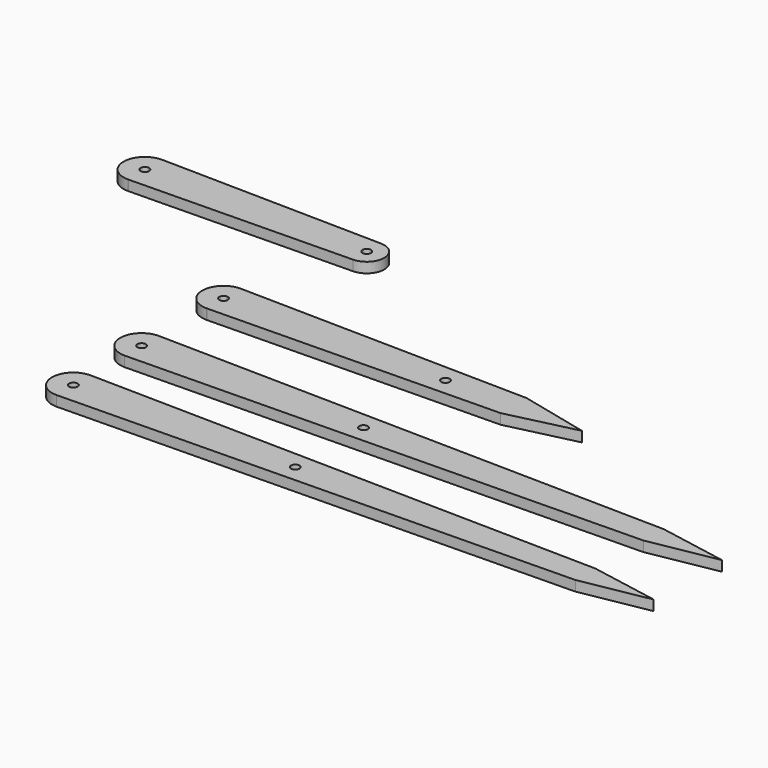
from build123d import *

# Parameters (mm, degrees)
F0_R     = 2.5
F1_DEPTH = 6
F5_R     = 2.5
F6_DEPTH = 6
F7_R     = 2.5
F8_DEPTH = 6


with BuildPart() as f1:
    # F0 (on Top) → F1 (new body)
    with BuildSketch(Plane.XY):
        with BuildLine():
            Line((300, 7.2967819398), (0, 12.5))
            ThreePointArc((0, 12.5), (-12.5, 0), (0, -12.5))
            Line((0, -12.5), (300, -7.2967819398))
            Line((300, -7.2967819398), (340, 0))
            Line((340, 0), (300, 7.2967819398))
        make_face()
        Circle(F0_R, mode=Mode.SUBTRACT)
        with Locations((130, 0)):
            Circle(F0_R, mode=Mode.SUBTRACT)
    extrude(amount=F1_DEPTH)


with BuildPart() as f2_1:
    # F2: copy of F1
    add(f1.part.moved(Location((0, 50, 0))))


with BuildPart() as f3_1:
    # F3: copy of F2_1
    add(f2_1.part.moved(Location((0, 50, 0))))


with BuildPart() as f6:
    # F5 (on Top) → F6 (new body)
    with BuildSketch(Plane.XY):
        with BuildLine():
            Line((170, 119.5202078175), (0.4362437088, 122.479954193))
            ThreePointArc((0.4362437088, 122.479954193), (8.9917475042, 118.670798486), (12.5, 109.9875688553))
            ThreePointArc((12.5, 109.9875688553), (8.9917475042, 101.3043392245), (0.4362437088, 97.4951835175))
            Line((0.4362437088, 97.4951835175), (170, 100.4549298931))
            Line((170, 100.4549298931), (210, 109.9875688553))
            Line((210, 109.9875688553), (170, 119.5202078175))
        make_face()
        with Locations((130, 109.9875688553)):
            Circle(F5_R, mode=Mode.SUBTRACT)
        with BuildLine():
            Line((0.4362437088, 122.479954193), (0, 122.4875688553))
            Line((0, 122.4875688553), (0, 112.4875688553))
            ThreePointArc((0, 112.4875688553), (1.767766953, 111.7553358083), (2.5, 109.9875688553))
            ThreePointArc((2.5, 109.9875688553), (1.767766953, 108.2198019023), (0, 107.4875688553))
            Line((0, 107.4875688553), (0, 97.4875688553))
            Line((0, 97.4875688553), (0.4362437088, 97.4951835175))
            ThreePointArc((0.4362437088, 97.4951835175), (8.9917475042, 101.3043392245), (12.5, 109.9875688553))
            ThreePointArc((12.5, 109.9875688553), (8.9917475042, 118.670798486), (0.4362437088, 122.479954193))
        make_face()
        with BuildLine():
            Line((0, 112.4875688553), (0, 122.4875688553))
            ThreePointArc((0, 122.4875688553), (-12.5, 109.9875688553), (0, 97.4875688553))
            Line((0, 97.4875688553), (0, 107.4875688553))
            ThreePointArc((0, 107.4875688553), (-2.5, 109.9875688553), (0, 112.4875688553))
        make_face()
    extrude(amount=F6_DEPTH)


with BuildPart() as f8:
    # F7 (on Top) → F8 (new body)
    with BuildSketch(Plane.XY):
        with BuildLine():
            Line((22.2732392002, 197.484955665), (-107.4690427016, 199.7496156196))
            Line((-107.4690427016, 199.7496156196), (-107.9052864104, 199.7572302818))
            Line((-107.9052864104, 199.7572302818), (-107.9052864104, 189.7572302818))
            ThreePointArc((-107.9052864104, 189.7572302818), (-106.1375194574, 189.0249972348), (-105.4052864104, 187.2572302818))
            ThreePointArc((-105.4052864104, 187.2572302818), (-106.1375194574, 185.4894633289), (-107.9052864104, 184.7572302818))
            Line((-107.9052864104, 184.7572302818), (-107.9052864104, 174.7572302818))
            Line((-107.9052864104, 174.7572302818), (-107.4690427016, 174.7648449441))
            Line((-107.4690427016, 174.7648449441), (22.2732392002, 177.0295048986))
            ThreePointArc((22.2732392002, 177.0295048986), (32.3239969422, 187.2572302818), (22.2732392002, 197.484955665))
        make_face()
        with Locations((22.0947135896, 187.2572302818)):
            Circle(F7_R, mode=Mode.SUBTRACT)
        with BuildLine():
            Line((-107.9052864104, 189.7572302818), (-107.9052864104, 199.7572302818))
            ThreePointArc((-107.9052864104, 199.7572302818), (-120.4052864104, 187.2572302818), (-107.9052864104, 174.7572302818))
            Line((-107.9052864104, 174.7572302818), (-107.9052864104, 184.7572302818))
            ThreePointArc((-107.9052864104, 184.7572302818), (-110.4052864104, 187.2572302818), (-107.9052864104, 189.7572302818))
        make_face()
    extrude(amount=F8_DEPTH)


solid = Compound([f1.part, f2_1.part, f6.part, f8.part])
